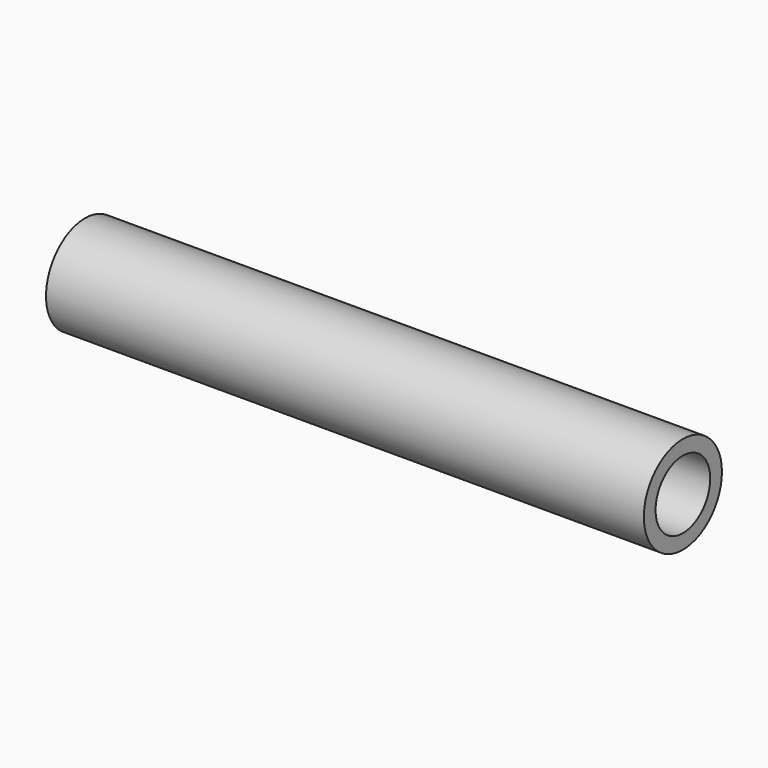
from build123d import *

# Parameters (mm, degrees)
F0_R     = 10
F0_R_2   = 7
F1_DEPTH = 122.5


with BuildPart() as f1:
    # F0 (on Right) → F1 (new body)
    with BuildSketch(Plane.YZ):
        Circle(F0_R)
        Circle(F0_R_2, mode=Mode.SUBTRACT)
        Circle(F0_R)
        Circle(F0_R_2, mode=Mode.SUBTRACT)
    extrude(amount=F1_DEPTH)


solid = f1.part
